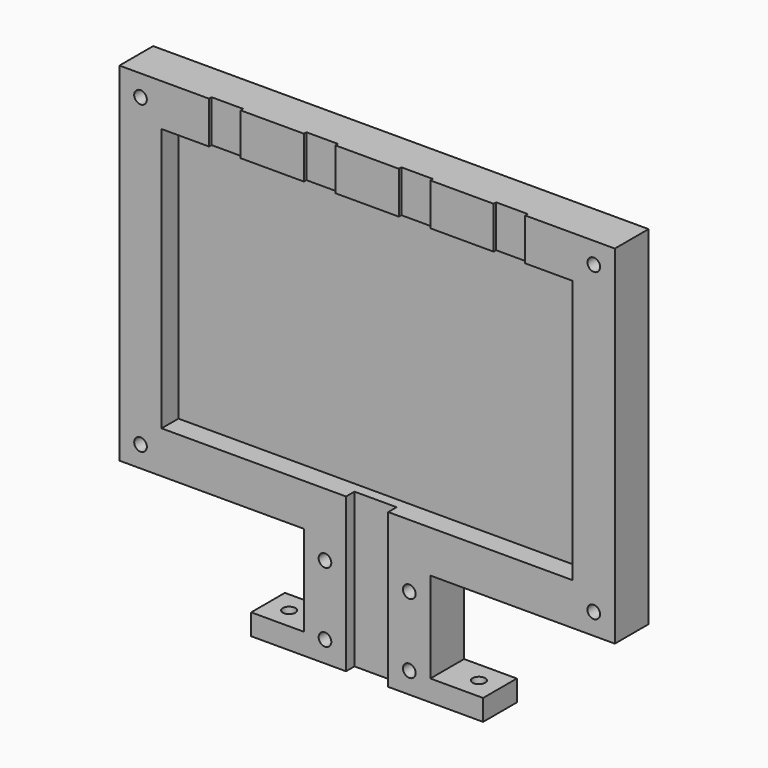
from build123d import *

# Parameters (mm, degrees)
F1_DEPTH  = 20
F3_W      = 195
F3_H      = 125
F4_DEPTH  = 10
F5_W      = 20
F5_H      = 73
F6_DEPTH  = 5
F7_R      = 3
F8_DEPTH  = 20.001
F9_R      = 3
F10_DEPTH = 10.001
F12_W     = 15
F12_H     = 20
F13_DEPTH = 1.5


with BuildPart() as f1:
    # F0 (on Front) → F1 (new body)
    with BuildSketch(Plane.XZ):
        Polygon((0, 10), (0, 0), (110, 0), (110, 10), (85, 10), (85, 53), (172.5, 53), (172.5, 218), (-62.5, 218), (-62.5, 53), (25, 53), (25, 10), align=None)
    extrude(amount=F1_DEPTH)

    # F3 (on face) → F4 (cut)
    with BuildSketch(Plane.XZ.offset(20)):
        with Locations((55, 135.5)):
            Rectangle(F3_W, F3_H)
    extrude(amount=-F4_DEPTH, mode=Mode.SUBTRACT)

    # F5 (on face) → F6 (cut)
    with BuildSketch(Plane.XZ.offset(20)):
        with Locations((55, 36.5)):
            Rectangle(F5_W, F5_H)
    extrude(amount=-F6_DEPTH, mode=Mode.SUBTRACT)

    # F7 (on face) → F8 (cut, through all)
    with BuildSketch(Plane.XZ.offset(20)):
        with Locations((-52.5, 208)):
            Circle(F7_R)
        with Locations((162.5, 208)):
            Circle(F7_R)
        with Locations((162.5, 63)):
            Circle(F7_R)
        with Locations((-52.5, 63)):
            Circle(F7_R)
        with Locations((35, 10)):
            Circle(F7_R)
        with Locations((35, 43)):
            Circle(F7_R)
        with Locations((75, 43)):
            Circle(F7_R)
        with Locations((75, 10)):
            Circle(F7_R)
    extrude(amount=-F8_DEPTH, mode=Mode.SUBTRACT)

    # F9 (on face) → F10 (cut, through all)
    with BuildSketch(Plane.XY.offset(10)):
        with Locations((10, -10)):
            Circle(F9_R)
        with Locations((100, -10)):
            Circle(F9_R)
    extrude(amount=-F10_DEPTH, mode=Mode.SUBTRACT)

    # F12 (on face) → F13 (cut)
    with BuildSketch(Plane.XZ.offset(20)):
        with Locations((-12.5, 208)):
            Rectangle(F12_W, F12_H)
        with Locations((32.5, 208)):
            Rectangle(F12_W, F12_H)
        with Locations((77.5, 208)):
            Rectangle(F12_W, F12_H)
        with Locations((122.5, 208)):
            Rectangle(F12_W, F12_H)
    extrude(amount=-F13_DEPTH, mode=Mode.SUBTRACT)


solid = f1.part
